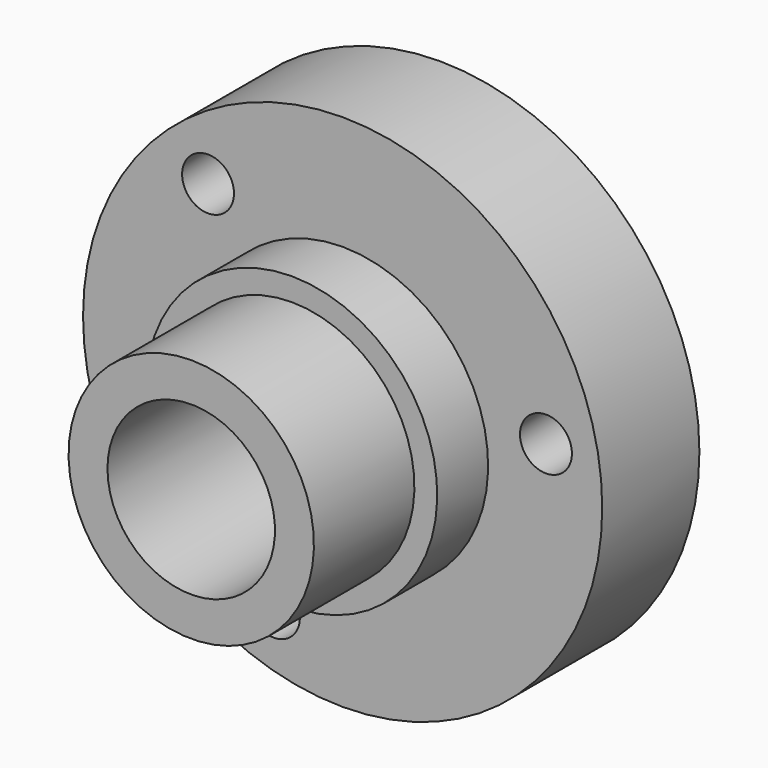
from build123d import *

# Parameters (mm, degrees)
F2_R     = 3.1
F2_R_2   = 10
F3_DEPTH = 47.8
F2_R_3   = 5.1
F4_DEPTH = 6.9


with BuildPart() as f1:
    # F0 (on Right) → F1 (revolve)
    with BuildSketch(Plane.YZ):
        Polygon((-22.1, 14.65), (-37.1, 14.65), (-37.1, 0), (0, 0), (0, 31), (-14.5, 31), (-14.5, 17.375), (-22.1, 17.375), align=None)
    revolve(axis=Axis((0, -18.55, 0), (0, -1, 0)))

    # F2 (on face) → F3 (cut)
    with BuildSketch(Plane(origin=(0, 0, 0), x_dir=(-1, 0, 0), z_dir=(0, 1, 0))):
        with Locations((-24.279309, 4.539293)):
            Circle(F2_R)
        Circle(F2_R_2)
        with Locations((16.070797, 18.756852)):
            Circle(F2_R)
        with Locations((8.208512, -23.296144)):
            Circle(F2_R)
    extrude(amount=-F3_DEPTH, mode=Mode.SUBTRACT)

    # F2 (on face) → F4 (cut)
    with BuildSketch(Plane(origin=(0, 0, 0), x_dir=(-1, 0, 0), z_dir=(0, 1, 0))):
        with Locations((-24.279309, 4.539293)):
            Circle(F2_R_3)
        with Locations((-24.279309, 4.539293)):
            Circle(F2_R, mode=Mode.SUBTRACT)
        with Locations((16.070797, 18.756852)):
            Circle(F2_R_3)
        with Locations((16.070797, 18.756852)):
            Circle(F2_R, mode=Mode.SUBTRACT)
        with Locations((8.208512, -23.296144)):
            Circle(F2_R_3)
        with Locations((8.208512, -23.296144)):
            Circle(F2_R, mode=Mode.SUBTRACT)
    extrude(amount=-F4_DEPTH, mode=Mode.SUBTRACT)


solid = f1.part
